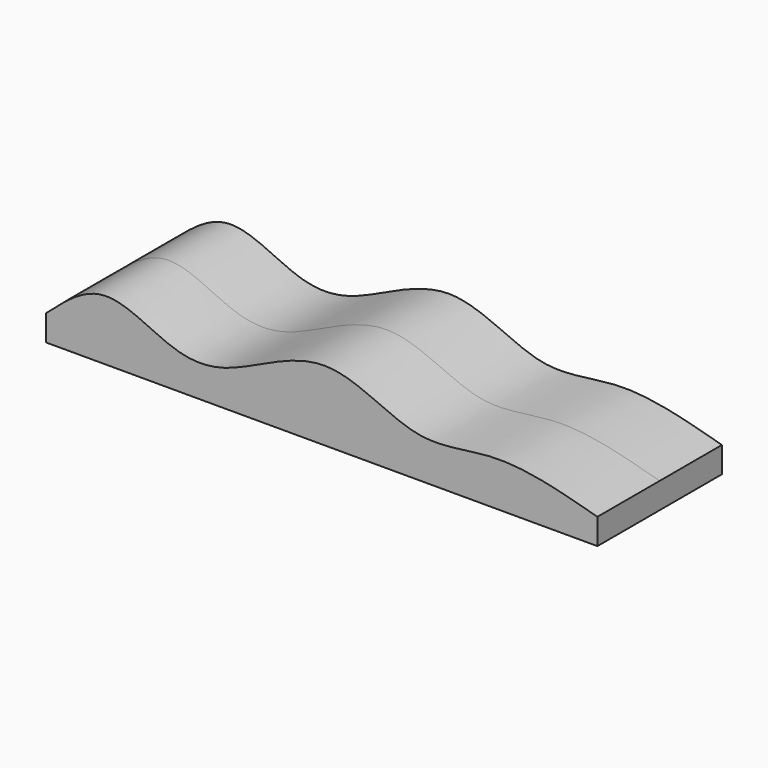
from build123d import *

# Parameters (mm, degrees)
F0_W     = 125.9911470115
F0_H     = 5.905834958
F1_DEPTH = 17.78


with BuildPart() as f1:
    # F0 (on Front) → F1 (new body)
    with BuildSketch(Plane.XZ):
        with Locations((-71.1512509733, -24.4670296088)):
            Rectangle(F0_W, F0_H)
        with BuildLine():
            add(Edge.make_bspline(
                [(-134.1468244791, -21.5141121298), (-129.8236066388, -17.6485118987), (-121.0764452593, -9.8272476692), (-105.148033019, -20.6517145594), (-91.2943869567, -20.3762517964), (-70.1045097826, -6.1960385859), (-49.7991979988, -21.55195815), (-30.9957593006, -15.2069773152), (-16.0766320679, -19.3267938492), (-8.1556774676, -21.5141121298)],
                knots=[0, 0, 0, 0, 0.1308017639, 0.2646510493, 0.3862310143, 0.5434908611, 0.6982545376, 0.8397954471, 1, 1, 1, 1], degree=3))
            Line((-134.1468244791, -21.5141121298), (-8.1556774676, -21.5141121298))
        make_face()
    extrude(amount=F1_DEPTH)

    # F2: F1 across face


with BuildPart() as f1_1:
    add(f1.part)
    add(f1.part.mirror(Plane(origin=(-73.3360691794, -17.78, -21.7360929542), x_dir=(1, 0, 0), z_dir=(0, -1, 0))))


solid = f1_1.part
